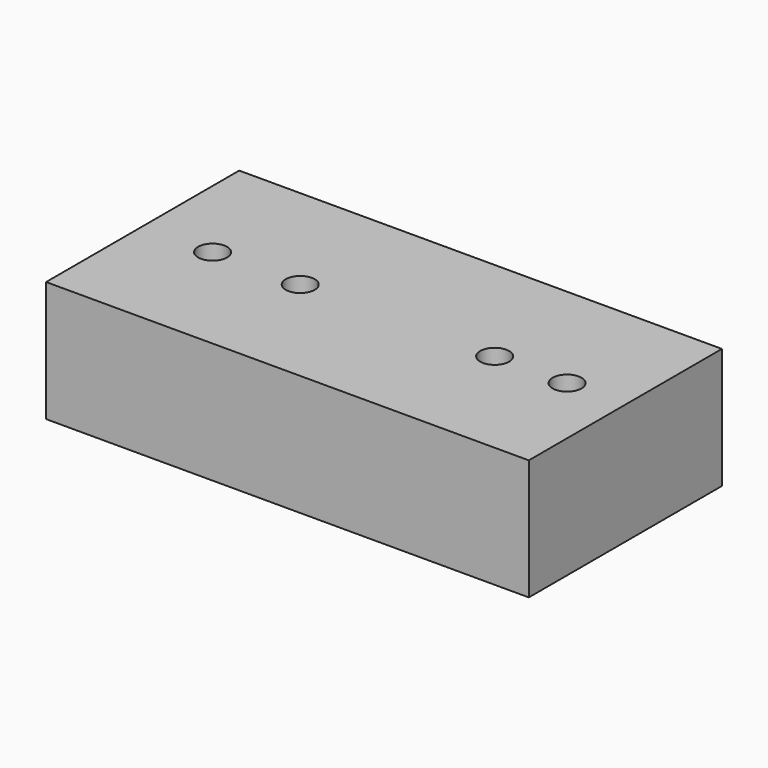
from build123d import *

# Parameters (mm, degrees)
F0_W     = 100
F0_H     = 50
F1_DEPTH = 25
F3_D     = 6
F3_DEPTH = 8
F3_TIP   = 1.8025818571


with BuildPart() as f1:
    # F0 (on Top) → F1 (new body)
    with BuildSketch(Plane.XY):
        Rectangle(F0_W, F0_H)
    extrude(amount=F1_DEPTH)

    # F3
    with Locations(Plane.XY.offset(25)):
        with Locations((-35.5051569641, 0), (-17.3530355096, 0), (22.9266509414, 0), (37.9259362817, 0)):
            Hole(F3_D / 2, depth=F3_DEPTH)
            with Locations((0, 0, -(F3_DEPTH + F3_TIP / 2))):  # 118° drill point
                Cone(0, F3_D / 2, F3_TIP, mode=Mode.SUBTRACT)


solid = f1.part
